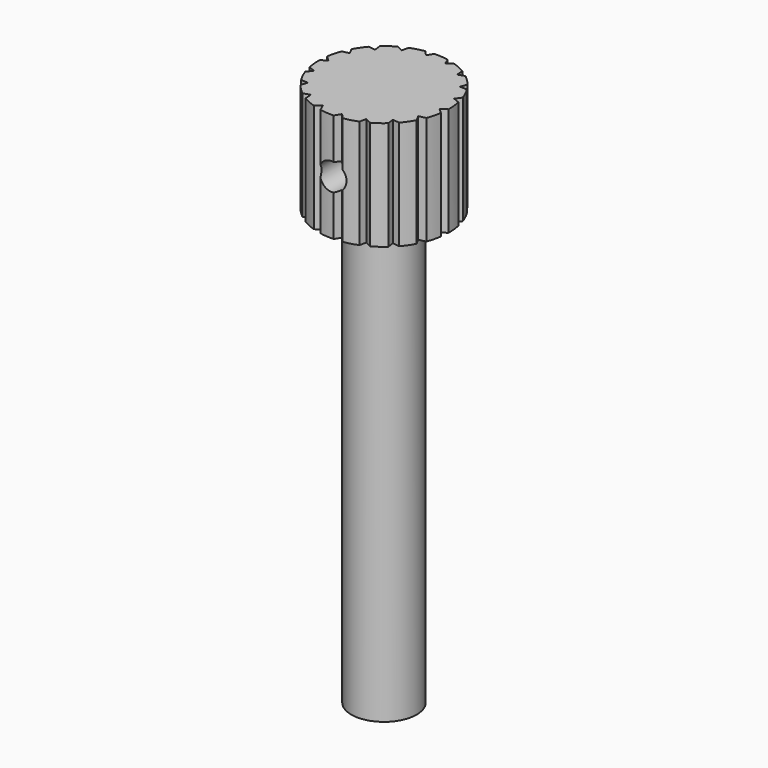
from build123d import *

# Parameters (mm, degrees)
F1_DEPTH = 20
F3_R     = 2.5
F4_DEPTH = 48.262108
F5_R     = 6
F6_DEPTH = 80


with BuildPart() as f1:
    # F0 (on Top) → F1 (new body)
    with BuildSketch(Plane.XY):
        with BuildLine():
            Line((-10.553502, 21.159582), (-11.701467, 21.747872))
            ThreePointArc((-11.701467, 21.747872), (-12.807584, 21.051104), (-13.831344, 20.23815))
            Line((-13.831344, 20.23815), (-13.656418, 18.96014))
            Line((-13.656418, 18.96014), (-14.936359, 19.120325))
            ThreePointArc((-14.936359, 19.120325), (-15.73746, 18.087264), (-16.421432, 16.97319))
            Line((-16.421432, 16.97319), (-15.819951, 15.832082))
            Line((-15.819951, 15.832082), (-17.077488, 15.544841))
            ThreePointArc((-17.077488, 15.544841), (-17.476949, 14.300088), (-17.738638, 13.019269))
            Line((-17.738638, 13.019269), (-16.783148, 12.152696))
            Line((-16.783148, 12.152696), (-17.866604, 11.452675))
            ThreePointArc((-17.866604, 11.452675), (-17.816244, 10.146366), (-17.624085, 8.853287))
            Line((-17.624085, 8.853287), (-16.429833, 8.365772))
            Line((-16.429833, 8.365772), (-17.208528, 7.337403))
            ThreePointArc((-17.208528, 7.337403), (-16.714421, 6.127099), (-16.091591, 4.977724))
            Line((-16.091591, 4.977724), (-14.802622, 4.928068))
            Line((-14.802622, 4.928068), (-15.182632, 3.695388))
            ThreePointArc((-15.182632, 3.695388), (-14.304375, 2.727069), (-13.325997, 1.86003))
            Line((-13.325997, 1.86003), (-12.097779, 2.254223))
            Line((-12.097779, 2.254223), (-12.033271, 0.965911))
            ThreePointArc((-12.033271, 0.965911), (-10.876794, 0.35637), (-9.660875, -0.123755))
            Line((-9.660875, -0.123755), (-8.641549, 0.66674))
            Line((-8.641549, 0.66674), (-8.140303, -0.521814))
            ThreePointArc((-8.140303, -0.521814), (-6.845095, -0.699057), (-5.538292, -0.734358))
            Line((-5.538292, -0.734358), (-4.850804, 0.357095))
            Line((-4.850804, 0.357095), (-3.973277, -0.588344))
            ThreePointArc((-3.973277, -0.588344), (-2.695559, -0.311911), (-1.455493, 0.101869))
            Line((-1.455493, 0.101869), (-1.182765, 1.362634))
            Line((-1.182765, 1.362634), (-0.0348, 0.774344))
            ThreePointArc((-0.0348, 0.774344), (1.071317, 1.471112), (2.095076, 2.284066))
            Line((2.095076, 2.284066), (1.92015, 3.562076))
            Line((1.92015, 3.562076), (3.200092, 3.401891))
            ThreePointArc((3.200092, 3.401891), (4.001193, 4.434952), (4.685165, 5.549026))
            Line((4.685165, 5.549026), (4.083684, 6.690134))
            Line((4.083684, 6.690134), (5.341221, 6.977375))
            ThreePointArc((5.341221, 6.977375), (5.740682, 8.222128), (6.002371, 9.502947))
            Line((6.002371, 9.502947), (5.046881, 10.36952))
            Line((5.046881, 10.36952), (6.130337, 11.069541))
            ThreePointArc((6.130337, 11.069541), (6.079977, 12.37585), (5.887818, 13.668929))
            Line((5.887818, 13.668929), (4.693566, 14.156444))
            Line((4.693566, 14.156444), (5.472261, 15.184813))
            ThreePointArc((5.472261, 15.184813), (4.978154, 16.395117), (4.355324, 17.544492))
            Line((4.355324, 17.544492), (3.066354, 17.594148))
            Line((3.066354, 17.594148), (3.446365, 18.826828))
            ThreePointArc((3.446365, 18.826828), (2.568108, 19.795147), (1.58973, 20.662186))
            Line((1.58973, 20.662186), (0.361512, 20.267993))
            Line((0.361512, 20.267993), (0.297004, 21.556305))
            ThreePointArc((0.297004, 21.556305), (-0.859473, 22.165846), (-2.075392, 22.645971))
            Line((-2.075392, 22.645971), (-3.094718, 21.855476))
            Line((-3.094718, 21.855476), (-3.595965, 23.04403))
            ThreePointArc((-3.595965, 23.04403), (-4.891172, 23.221273), (-6.197975, 23.256574))
            Line((-6.197975, 23.256574), (-6.885463, 22.165121))
            Line((-6.885463, 22.165121), (-7.76299, 23.11056))
            ThreePointArc((-7.76299, 23.11056), (-9.040708, 22.834127), (-10.280774, 22.420347))
            Line((-10.280774, 22.420347), (-10.553502, 21.159582))
        make_face()
    extrude(amount=F1_DEPTH)

    # F3 (on offset) → F4 (cut, through all)
    with BuildSketch(Plane.XZ.offset(25)):
        with Locations((-5.868134, 10)):
            Circle(F3_R)
    extrude(amount=-F4_DEPTH, mode=Mode.SUBTRACT)

    # F5 (on face) → F6 (join)
    with BuildSketch(Plane(origin=(0, 0, 0), x_dir=(1, 0, 0), z_dir=(0, 0, -1))):
        with Locations((-5.868134, -11.261108)):
            Circle(F5_R)
    extrude(amount=F6_DEPTH)


solid = f1.part
